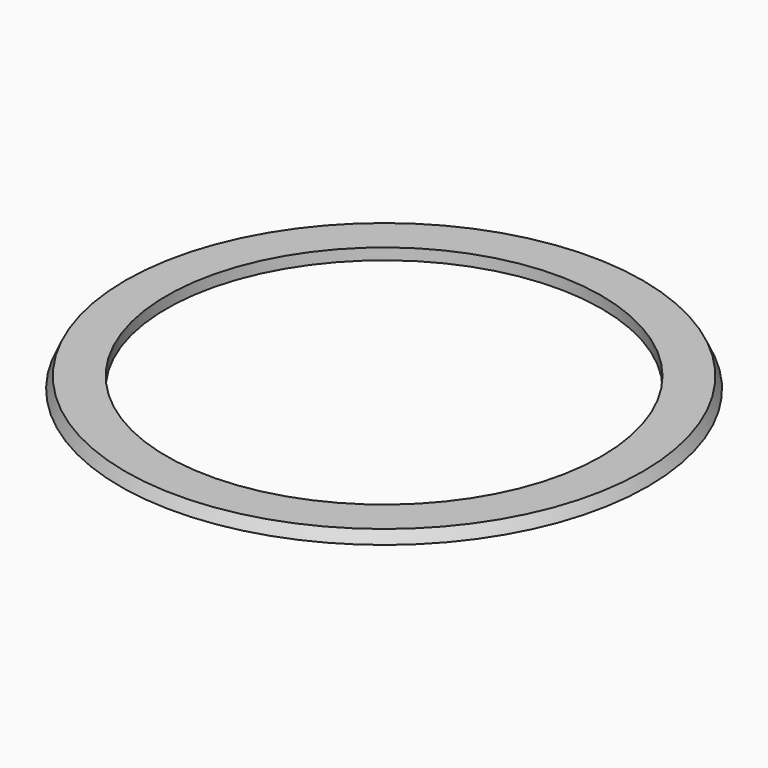
from build123d import *

# Parameters (mm, degrees)
F2_R     = 57.5
F3_DEPTH = 3


with BuildPart() as f1:
    # F0 (on Front) → F1 (revolve)
    with BuildSketch(Plane.XZ):
        Polygon((69.796792, 0), (68.410506, 3), (0, 3), (0, 0), align=None)
    revolve(axis=Axis((0, 0, 1.5), (0, 0, -1)))

    # F2 (on face) → F3 (cut)
    with BuildSketch(Plane.XY.offset(3)):
        Circle(F2_R)
    extrude(amount=-F3_DEPTH, mode=Mode.SUBTRACT)


solid = f1.part
